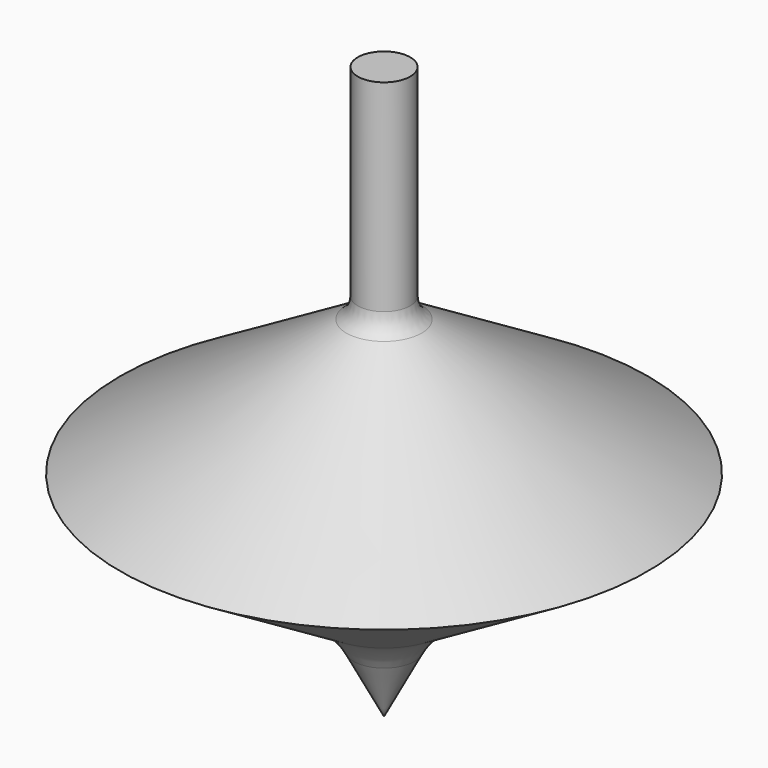
from build123d import *

# Parameters (mm, degrees)
F2_R = 5
F3_R = 1.3428215566


with BuildPart() as f1:
    # F0 (on Front) → F1 (revolve)
    with BuildSketch(Plane.XZ):
        Polygon((-1.4891009778, 20.3513566048), (-1.4891009778, 8.119039867), (0, 9.0138781887), (0, 20.3513566048), align=None)
        Polygon((-1.4891009778, 8.119039867), (-15, 0), (0, 0), (0, 9.0138781887), align=None)
        Polygon((0, 0), (-15, 0), (-2.3833475581, -7.5784025668), (0, -9.01), align=None)
        Polygon((0, -9.01), (-2.3833475581, -7.5784025668), (0, -12.1514424682), align=None)
    revolve(axis=Axis((0, 0, -4.505), (0, 0, -1)))

    # F2
    f2_edges = [f1.edges().sort_by_distance(p)[0] for p in [
        (2.383348, 0, -7.578403),
    ]]
    fillet(f2_edges, radius=F2_R)

    # F3
    f3_edges = [f1.edges().sort_by_distance(p)[0] for p in [
        (1.489101, 0, 8.11904),
    ]]
    fillet(f3_edges, radius=F3_R)


solid = f1.part
